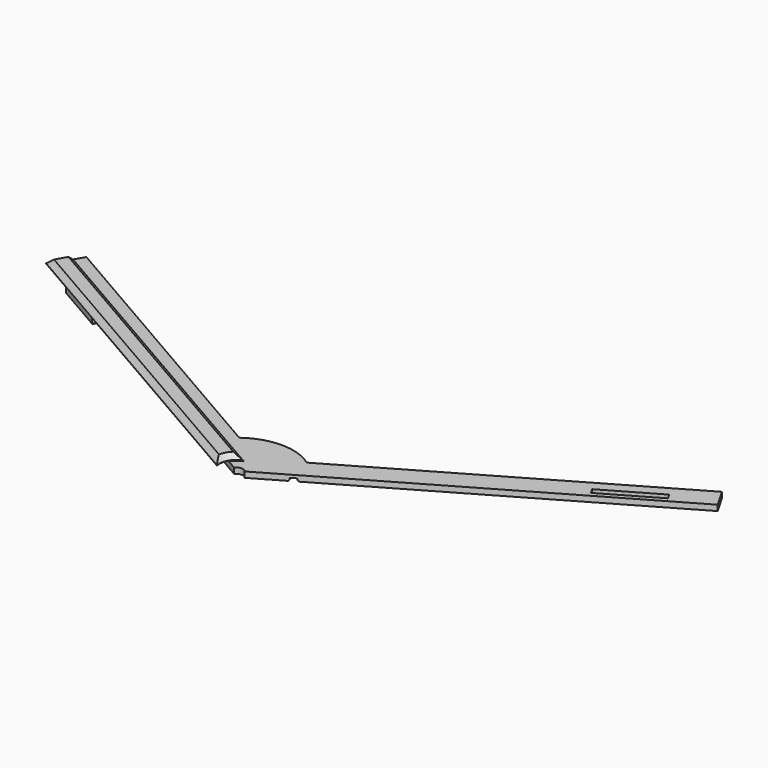
from build123d import *

# Parameters (mm, degrees)
SKETCH002_R     = 2.6
PAD001_DEPTH    = 2
PAD002_DEPTH    = 2
POCKET003_DEPTH = 2.201
PAD003_DEPTH    = 2.2
POCKET004_DEPTH = 4.001
SKETCH006_R     = 17.1
SKETCH006_R_2   = 14.9
POCKET002_DEPTH = 1
CHAMFER002_SIZE = 0.4
CHAMFER_SIZE    = 1.99
SKETCH004_R     = 2.2
POCKET_DEPTH    = 4.001
SKETCH005_R     = 6.2
POCKET001_DEPTH = 2.001
SKETCH010_R     = 4
POCKET005_DEPTH = 1
CHAMFER001_SIZE = 1.7
POCKET006_DEPTH = 5


with BuildPart() as part:
    # Sketch002 → Pad001 (new body)
    with BuildSketch(Plane.XY):
        Polygon((-116.824546, 67.621888), (-37.5, 205.016032), (37.5, 205.016032), (116.824546, 67.621888), (0, 0.173205), align=None)
        with Locations((-51.370835, 167.991041)):
            Circle(SKETCH002_R, mode=Mode.SUBTRACT)
        with Locations((51.370835, 167.991041)):
            Circle(SKETCH002_R, mode=Mode.SUBTRACT)
    extrude(amount=PAD001_DEPTH)

    # Sketch003 → Pad002 (join)
    with BuildSketch(Plane.XY.offset(2)):
        Polygon((-118.899546, 64.027883), (-114.899546, 70.956086), (-0.173205, 4.718802), (-0.173205, 0.1), (-4.173205, -2.209401), align=None)
    extrude(amount=PAD002_DEPTH)

    # Sketch007 → Pocket003 (cut, through all)
    with BuildSketch(Plane.XY.offset(2.2)):
        Polygon((-116.824546, 67.621888), (0, 0.173205), (-4.173205, -2.209401), (-118.899546, 64.027883), align=None)
    extrude(amount=-POCKET003_DEPTH, mode=Mode.SUBTRACT)

    # Sketch008 → Pad003 (join)
    with BuildSketch(Plane.XY):
        Polygon((-104.909165, 58.259933), (-87.588657, 48.259933), (-88.588657, 46.527883), (-105.909165, 56.527883), align=None)
    extrude(amount=PAD003_DEPTH)

    # Sketch009 → Pocket004 (cut, through all)
    with BuildSketch(Plane.XY):
        Polygon((83.830836, 53.168669), (84.960836, 51.211452), (103.666985, 62.011452), (102.536985, 63.968669), align=None)
    extrude(amount=POCKET004_DEPTH, mode=Mode.SUBTRACT)

    # Sketch006 → Pocket002 (cut)
    with BuildSketch(Plane.XY):
        Circle(SKETCH006_R)
        Circle(SKETCH006_R_2, mode=Mode.SUBTRACT)
    extrude(amount=POCKET002_DEPTH, mode=Mode.SUBTRACT)

    # Chamfer002
    chamfer002_edges = [part.edges().sort_by_distance(p)[0] for p in [
        (-96.248911, 53.259933, 0),
        (-88.088657, 47.393908, 0),
        (-97.248911, 51.527883, 0),
        (-105.409165, 57.393908, 0),
        (94.313911, 56.611452, 0),
        (103.101985, 62.99006, 0),
        (93.183911, 58.568669, 0),
        (84.395836, 52.19006, 0),
        (0, 14.9, 0),
        (0, 17.1, 0),
    ]]
    chamfer(chamfer002_edges, length=CHAMFER002_SIZE)

    # Chamfer
    chamfer_edges = [part.edges().sort_by_distance(p)[0] for p in [
        (-57.536375, 37.837444, 4),
    ]]
    chamfer(chamfer_edges, length=CHAMFER_SIZE)

    # Sketch004 → Pocket (cut, through all)
    with BuildSketch(Plane.XY):
        Circle(SKETCH004_R)
    extrude(amount=POCKET_DEPTH, mode=Mode.SUBTRACT)

    # Sketch005 → Pocket001 (cut, through all)
    with BuildSketch(Plane.XY.offset(2)):
        Circle(SKETCH005_R)
    extrude(amount=POCKET001_DEPTH, mode=Mode.SUBTRACT)

    # Sketch010 → Pocket005 (cut)
    with BuildSketch(Plane.XY.offset(2)):
        with Locations((-51.370835, 167.991041)):
            Circle(SKETCH010_R)
        with Locations((51.370835, 167.991041)):
            Circle(SKETCH010_R)
    extrude(amount=-POCKET005_DEPTH, mode=Mode.SUBTRACT)

    # Chamfer001
    chamfer001_edges = [part.edges().sort_by_distance(p)[0] for p in [
        (-5.849077, 2.056283, 4),
        (-62.500992, 31.466162, 4),
        (-117.397046, 66.630289, 4),
    ]]
    chamfer(chamfer001_edges, length=CHAMFER001_SIZE)

    # Sketch011 → Pocket006 (cut)
    with BuildSketch(Plane.XY):
        with BuildLine():
            Line((-112.899546, 74.420187), (-37.5, 205.016032))
            Line((-37.5, 205.016032), (37.5, 205.016032))
            Line((37.5, 205.016032), (112.899546, 74.420187))
            Line((112.899546, 74.420187), (11.968954, 16.147883))
            ThreePointArc((11.968954, 16.147883), (0, 20.1), (-11.968954, 16.147883))
            Line((-11.968954, 16.147883), (-112.899546, 74.420187))
        make_face()
    extrude(amount=POCKET006_DEPTH, mode=Mode.SUBTRACT)


solid = part.part
